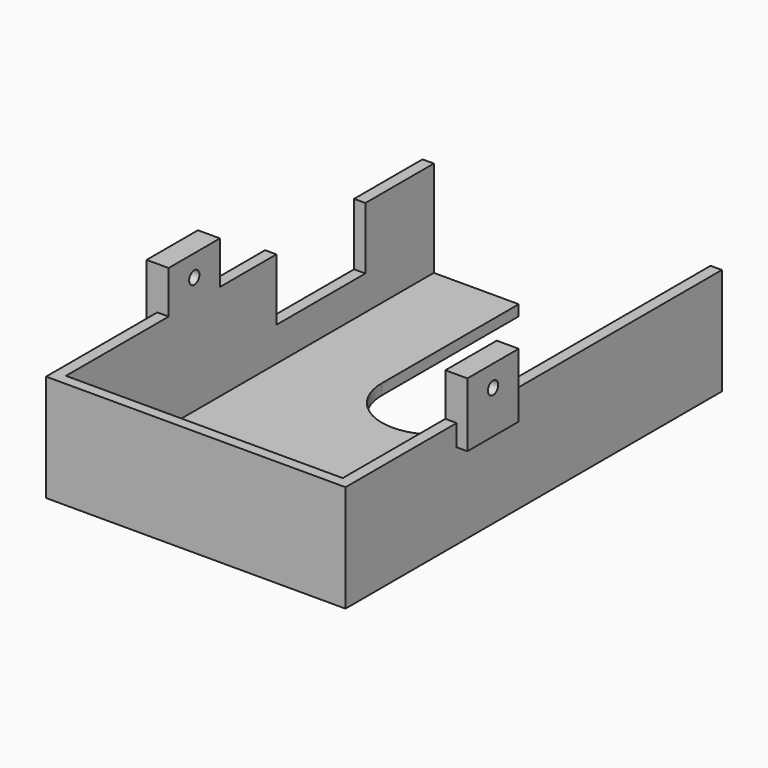
from build123d import *

# Parameters (mm, degrees)
SKETCH_W        = 110
SKETCH_H        = 25
PAD_DEPTH       = 70
POCKET_DEPTH    = 22.5
SKETCH002_W     = 20
SKETCH002_H     = 22.5
POCKET001_DEPTH = 70.001
SKETCH003_W     = 15
SKETCH003_H     = 15
SKETCH003_R     = 1.5
PAD001_DEPTH    = 2.5
SKETCH004_W     = 15
SKETCH004_H     = 15
SKETCH004_R     = 1.5
PAD002_DEPTH    = 2.5
POCKET002_DEPTH = 2.5
SKETCH006_W     = 26
SKETCH006_H     = 14.5
POCKET003_DEPTH = 2.5
SKETCH007_W     = 20
SKETCH007_H     = 2.5
PAD003_DEPTH    = 22.5
SKETCH008_W     = 20
SKETCH008_H     = 2.5
PAD004_DEPTH    = 22.5
SKETCH009_R     = 1.5
PAD005_DEPTH    = 0.15
SKETCH010_R     = 1.5
PAD006_DEPTH    = 0.15


with BuildPart() as part:
    # Sketch → Pad (new body)
    with BuildSketch(Plane.YZ):
        with Locations((55, 12.5)):
            Rectangle(SKETCH_W, SKETCH_H)
    extrude(amount=PAD_DEPTH)

    # Sketch001 (on Face3 of Pad) → Pocket (cut)
    with BuildSketch(Plane(origin=(0, 0, 25), x_dir=(0, -1, 0), z_dir=(0, 0, 1))):
        Polygon((-107.5, 2.5), (-2.5, 2.5), (-2.5, 67.5), (-107.5, 67.5), (-110, 67.5), (-110, 2.5), align=None)
    extrude(amount=-POCKET_DEPTH, mode=Mode.SUBTRACT)

    # Sketch002 (on Face5 of Pocket) → Pocket001 (cut, through all)
    with BuildSketch(Plane.YZ.offset(70)):
        with Locations((100, 13.75)):
            Rectangle(SKETCH002_W, SKETCH002_H)
    extrude(amount=-POCKET001_DEPTH, mode=Mode.SUBTRACT)

    # Sketch003 (on Face5 of Pocket001) → Pad001 (join, symmetric)
    with BuildSketch(Plane.YZ.offset(70)):
        with Locations((40, 27.5)):
            Rectangle(SKETCH003_W, SKETCH003_H)
        with Locations((40, 30)):
            Circle(SKETCH003_R, mode=Mode.SUBTRACT)
    extrude(amount=PAD001_DEPTH, both=True)

    # Sketch004 (on Face4 of Pad001) → Pad002 (join, symmetric)
    with BuildSketch(Plane(origin=(0, 0, 0), x_dir=(0, 1, 0), z_dir=(-1, 0, 0))):
        with Locations((40, -27.5)):
            Rectangle(SKETCH004_W, SKETCH004_H)
        with Locations((40, -30)):
            Circle(SKETCH004_R, mode=Mode.SUBTRACT)
    extrude(amount=PAD002_DEPTH, both=True)

    # Sketch005 → Pocket002 (cut)
    with BuildSketch(Plane.YX):
        with BuildLine():
            ThreePointArc((70, 47.5), (57.5, 35), (70, 22.5))
            Line((70, 22.5), (110, 22.5))
            ThreePointArc((110, 22.5), (122.5, 35), (110, 47.5))
            Line((70, 47.5), (110, 47.5))
        make_face()
    extrude(amount=-POCKET002_DEPTH, mode=Mode.SUBTRACT)

    # Sketch006 (on Face2 of Pocket002) → Pocket003 (cut)
    with BuildSketch(Plane(origin=(0, 0, 0), x_dir=(0, 1, 0), z_dir=(-1, 0, 0))):
        with Locations((77, -17.75)):
            Rectangle(SKETCH006_W, SKETCH006_H)
    extrude(amount=-POCKET003_DEPTH, mode=Mode.SUBTRACT)

    # Sketch007 (on Face17 of Pocket003) → Pad003 (join)
    with BuildSketch(Plane(origin=(0, 0, 2.5), x_dir=(0, -1, 0), z_dir=(0, 0, 1))):
        with Locations((-100, 1.25)):
            Rectangle(SKETCH007_W, SKETCH007_H)
    extrude(amount=PAD003_DEPTH)

    # Sketch008 (on Face15 of Pad003) → Pad004 (join)
    with BuildSketch(Plane(origin=(0, 0, 2.5), x_dir=(0, -1, 0), z_dir=(0, 0, 1))):
        with Locations((-100, 68.75)):
            Rectangle(SKETCH008_W, SKETCH008_H)
    extrude(amount=PAD004_DEPTH)

    # Sketch009 (on Face17 of Pad004) → Pad005 (join)
    with BuildSketch(Plane.YZ.offset(2.5)):
        Polygon((110, 25), (110, 2.5), (2.5, 2.5), (2.5, 25), (32.5, 25), (32.5, 35), (47.5, 35), (47.5, 25), (64, 25), (64, 10.5), (90, 10.5), (90, 25), align=None)
        with Locations((40, 30)):
            Circle(SKETCH009_R, mode=Mode.SUBTRACT)
    extrude(amount=PAD005_DEPTH)

    # Sketch010 (on Face11 of Pad005) → Pad006 (join)
    with BuildSketch(Plane(origin=(67.5, 0, 0), x_dir=(0, 1, 0), z_dir=(-1, 0, 0))):
        Polygon((2.5, -2.5), (110, -2.5), (110, -25), (47.5, -25), (47.5, -35), (32.5, -35), (32.5, -25), (2.5, -25), align=None)
        with Locations((40, -30)):
            Circle(SKETCH010_R, mode=Mode.SUBTRACT)
    extrude(amount=PAD006_DEPTH)


solid = part.part
